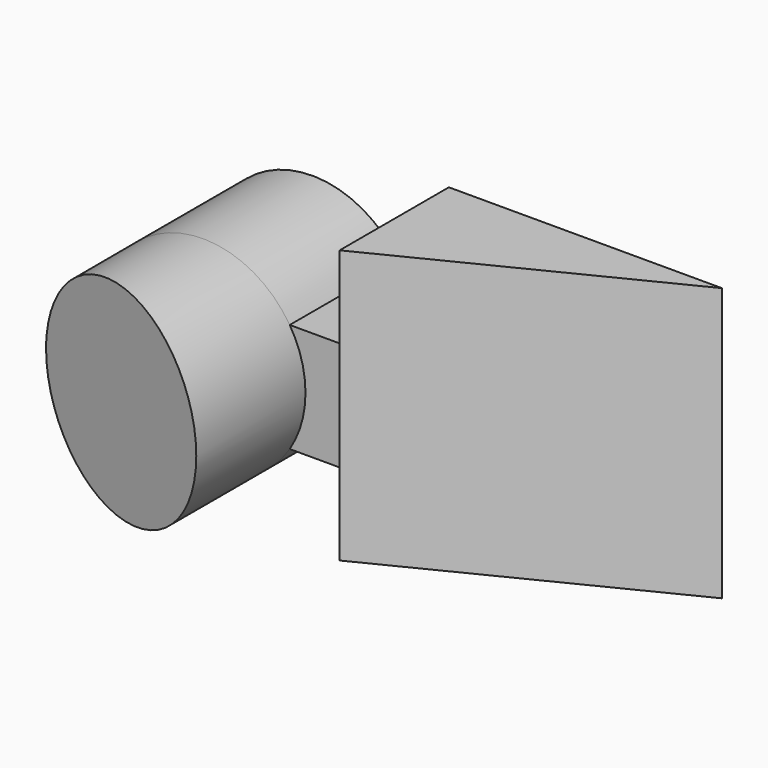
from build123d import *

# Parameters (mm, degrees)
F0_W      = 40
F0_H      = 10
F1_DEPTH  = 20
F3_DEPTH  = 20.001
F4_R      = 7.5
F5_DEPTH  = 10
F7_DEPTH  = 25
F8_DEPTH  = 20.001
F10_DEPTH = 10.001


with BuildPart() as f1:
    # F0 (on Top) → F1 (new body)
    with BuildSketch(Plane.XY):
        Rectangle(F0_W, F0_H)
    extrude(amount=F1_DEPTH)

    # F2 (on face) → F3 (cut, through all)
    with BuildSketch(Plane.XY.offset(20)):
        Polygon((20, -5), (20, 5), (0, -5), align=None)
    extrude(amount=-F3_DEPTH, mode=Mode.SUBTRACT)

    # F4 (on face) → F5 (join)
    with BuildSketch(Plane.XZ.offset(5)):
        with Locations((-10, 10)):
            Circle(F4_R)
    extrude(amount=F5_DEPTH)

    # F6 (on Top) → F7 (cut)
    with BuildSketch(Plane.XY):
        Polygon((-2.5, -15), (-17.5, -10), (-17.5, -15), align=None)
    extrude(amount=F7_DEPTH, mode=Mode.SUBTRACT)

    # F6 (on Top) → F8 (cut, through all)
    with BuildSketch(Plane.XY):
        Polygon((-2.5, -15), (-17.5, -10), (-17.5, -15), align=None)
    extrude(amount=F8_DEPTH, mode=Mode.SUBTRACT)

    # F9 (on face) → F10 (cut, through all)
    with BuildSketch(Plane.XZ.offset(5)):
        with BuildLine():
            Line((-3.655711, 14), (0, 14))
            Line((0, 14), (0, 20))
            Line((0, 20), (-20, 20))
            Line((-20, 20), (-20, 0))
            Line((-20, 0), (0, 0))
            Line((0, 0), (0, 6))
            Line((0, 6), (-3.655711, 6))
            ThreePointArc((-3.655711, 6), (-17.5, 10), (-3.655711, 14))
        make_face()
    extrude(amount=-F10_DEPTH, mode=Mode.SUBTRACT)


solid = f1.part
